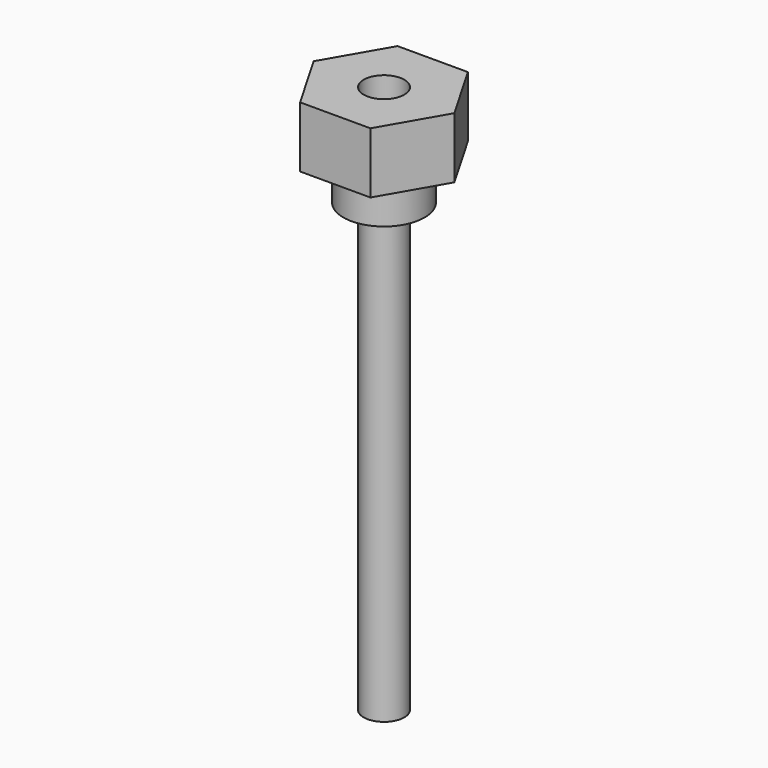
from build123d import *

# Parameters (mm, degrees)
F1_DEPTH  = 4.7625
F3_D      = 3.175
F4_R      = 3.175
F5_DEPTH  = 3.175
F7_R      = 1.5875
F8_DEPTH  = 34.925
F10_DEPTH = 2.005263


with BuildPart() as f1:
    # F0 (on Top) → F1 (new body)
    with BuildSketch(Plane.XY):
        Polygon((-2.749631, -4.7625), (2.749631, -4.7625), (5.499261, 0), (2.749631, 4.7625), (-2.749631, 4.7625), (-5.499261, 0), align=None)
    extrude(amount=F1_DEPTH)

    # F3 (through all)
    with Locations(Plane.XY.offset(4.7625)):
        with Locations((0, 0)):
            Hole(F3_D / 2)


with BuildPart() as f5:
    # F4 (on Top) → F5 (new body)
    with BuildSketch(Plane.XY):
        Circle(F4_R)
    extrude(amount=-F5_DEPTH)

    # F7 (on face) → F8 (join)
    with BuildSketch(Plane(origin=(0, 0, -3.175), x_dir=(1, 0, 0), z_dir=(0, 0, -1))):
        Circle(F7_R)
    extrude(amount=F8_DEPTH)

    # F9 (on Top) → F10 (cut)
    with BuildSketch(Plane.XY):
        Polygon((1.830024, 0.105922), (0.823281, 1.637809), (-1.006743, 1.531886), (-1.830024, -0.105922), (-0.823281, -1.637809), (1.006743, -1.531886), align=None)
    extrude(amount=-F10_DEPTH, mode=Mode.SUBTRACT)


solid = Compound([f1.part, f5.part])
